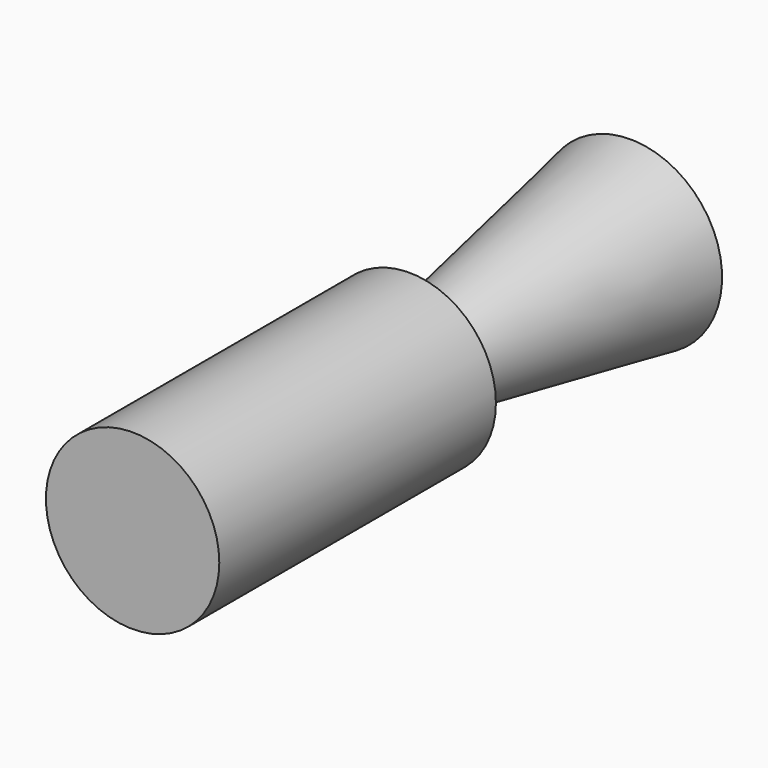
from build123d import *

# Parameters (mm, degrees)
F0_R     = 45.800126336
F1_DEPTH = 182.7
F2_R     = 22.7525856583
F3_DEPTH = 146
F3_TAPER = -10


with BuildPart() as f1:
    # F0 (on Front) → F1 (new body)
    with BuildSketch(Plane.XZ):
        Circle(F0_R)
    extrude(amount=-F1_DEPTH)

    # F2 (on face) → F3 (join)
    with BuildSketch(Plane(origin=(0, 182.7, 0), x_dir=(-1, 0, 0), z_dir=(0, 1, 0))):
        Circle(F2_R)
    extrude(amount=F3_DEPTH, taper=F3_TAPER)


solid = f1.part
